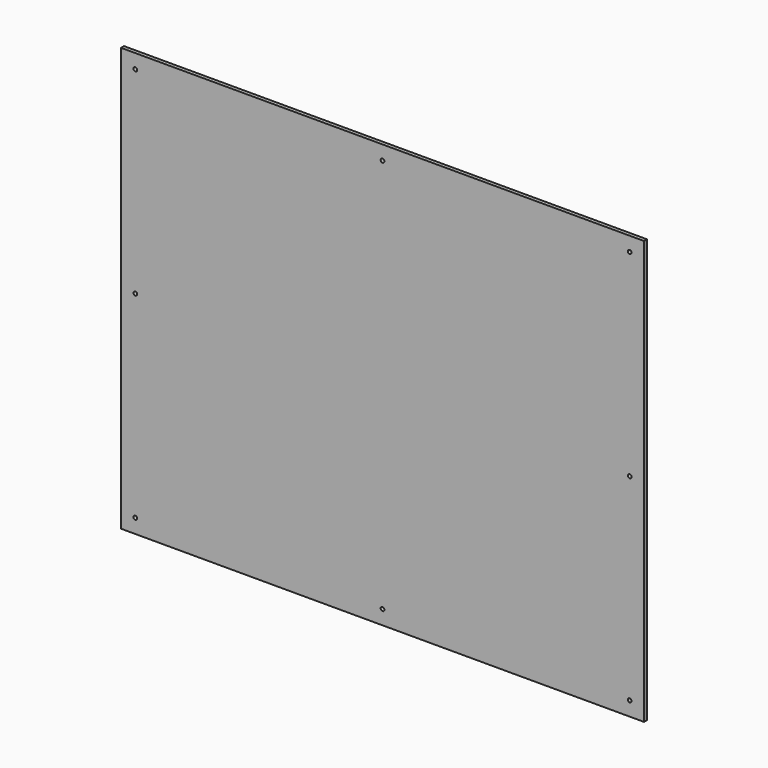
from build123d import *

# Parameters (mm, degrees)
F0_W     = 420
F0_H     = 340
F1_DEPTH = 1.5
F2_R     = 1.5
F3_DEPTH = 25


with BuildPart() as f1:
    # F0 (on Front) → F1 (new body, symmetric)
    with BuildSketch(Plane.XZ):
        Rectangle(F0_W, F0_H)
    extrude(amount=F1_DEPTH, both=True)

    # F2 (on face) → F3 (cut)
    with BuildSketch(Plane.XZ.offset(1.5)):
        with Locations((-198.5, 158.5)):
            Circle(F2_R)
        with Locations((198.5, -158.5)):
            Circle(F2_R)
        with Locations((198.5, 158.500001)):
            Circle(F2_R)
        with Locations((0, 158.500001)):
            Circle(F2_R)
        with Locations((198.500007, 0)):
            Circle(F2_R)
        with Locations((-198.500007, -158.5)):
            Circle(F2_R)
        with Locations((-198.500007, 0)):
            Circle(F2_R)
        with Locations((0, -158.500001)):
            Circle(F2_R)
    extrude(amount=-F3_DEPTH, mode=Mode.SUBTRACT)


solid = f1.part
